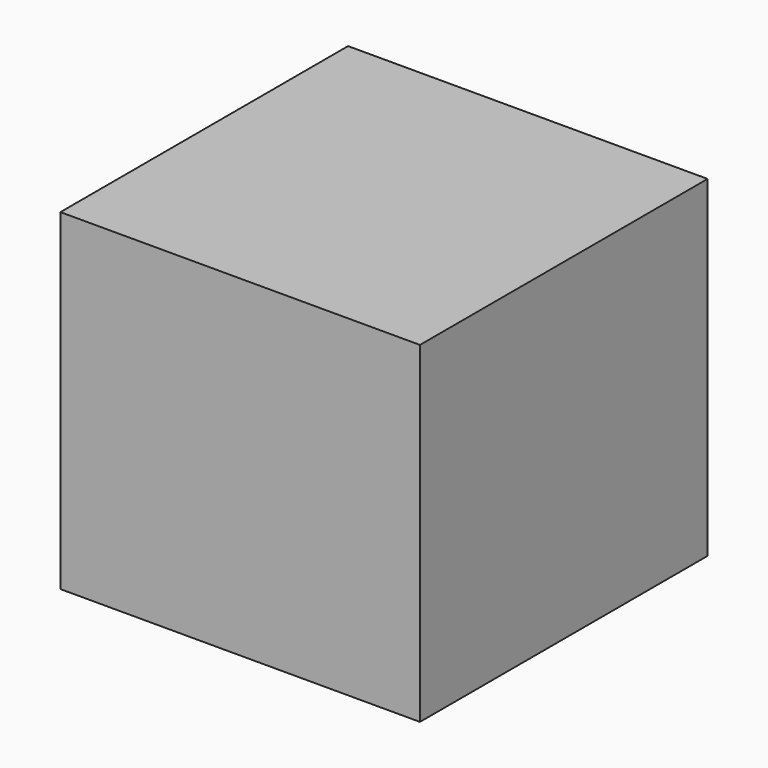
from build123d import *

# Parameters (mm, degrees)
F0_W     = 65
F0_H     = 65
F1_DEPTH = 30
F2_T     = -5


with BuildPart() as f1:
    # F0 (on Top) → F1 (new body, symmetric)
    with BuildSketch(Plane.XY):
        with Locations((2.5, 0)):
            Rectangle(F0_W, F0_H)
    extrude(amount=F1_DEPTH, both=True)

    # F2
    f2_openings = [f1.faces().sort_by_distance(p)[0] for p in [
        (2.5, 32.5, 0),
    ]]
    offset(amount=F2_T, openings=f2_openings)


solid = f1.part
